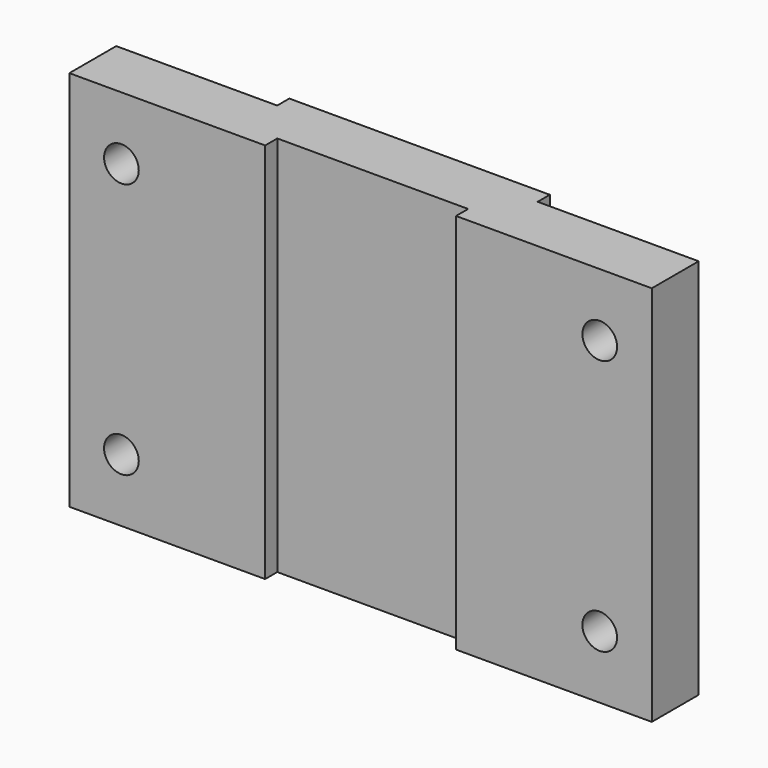
from build123d import *

# Parameters (mm, degrees)
F0_W     = 1117.6
F0_H     = 2235.2
F1_DEPTH = 331.47
F0_W_2   = 1146.302
F0_R     = 101.6
F2_DEPTH = 342.9
F3_W     = 1525.27
F3_H     = 2235.2
F4_DEPTH = 88.9
F5_W     = 1117.6
F5_H     = 2235.2
F6_DEPTH = 88.9


with BuildPart() as f1:
    # F0 (on Front) → F1 (new body)
    with BuildSketch(Plane.XZ):
        Rectangle(F0_W, F0_H)
    extrude(amount=F1_DEPTH)

    # F0 (on Front) → F2 (join)
    with BuildSketch(Plane.XZ):
        Rectangle(F0_W, F0_H)
        with Locations((1131.951, 0)):
            Rectangle(F0_W_2, F0_H)
        with Locations((1400.302, -749.397272)):
            Circle(F0_R, mode=Mode.SUBTRACT)
        with Locations((1400.302, 749.3)):
            Circle(F0_R, mode=Mode.SUBTRACT)
        with Locations((-1131.951, 0)):
            Rectangle(F0_W_2, F0_H)
        with Locations((-1400.302, -749.397272)):
            Circle(F0_R, mode=Mode.SUBTRACT)
        with Locations((-1400.302, 749.3)):
            Circle(F0_R, mode=Mode.SUBTRACT)
    extrude(amount=F2_DEPTH)

    # F3 (on face) → F4 (join)
    with BuildSketch(Plane(origin=(0, 0, 0), x_dir=(-1, 0, 0), z_dir=(0, 1, 0))):
        Rectangle(F3_W, F3_H)
    extrude(amount=F4_DEPTH)

    # F5 (on face) → F6 (cut)
    with BuildSketch(Plane.XZ.offset(342.9)):
        Rectangle(F5_W, F5_H)
    extrude(amount=-F6_DEPTH, mode=Mode.SUBTRACT)


solid = f1.part
